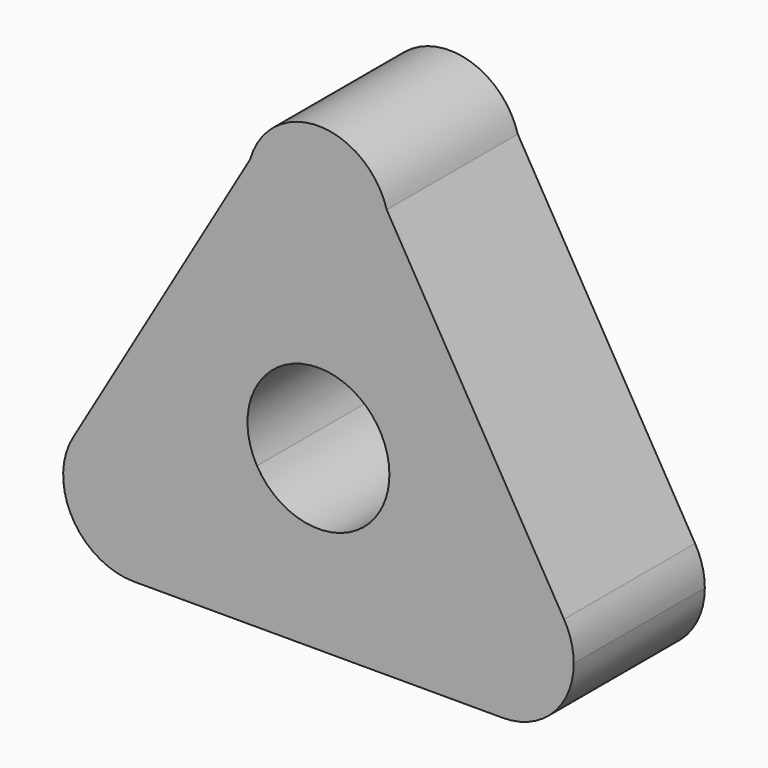
from build123d import *

# Parameters (mm, degrees)
F1_DEPTH = 25.4


with BuildPart() as f1:
    # F0 (on Front) → F1 (new body)
    with BuildSketch(Plane.XZ):
        with BuildLine():
            ThreePointArc((0, 11), (7.778175, 7.778175), (11, 0))
            ThreePointArc((11, 0), (10.625184, -2.847009), (9.526279, -5.5))
            Line((9.526279, -5.5), (19.054118, -11.0009))
            ThreePointArc((19.054118, -11.0009), (28.544672, -5.501853), (38.069208, -10.941828))
            Line((38.069208, -10.941828), (10.584951, 35.986505))
            ThreePointArc((10.584951, 35.986505), (10.894398, 34.50748), (10.9982, 33))
            ThreePointArc((10.9982, 33), (7.776902, 25.223098), (0, 22.0018))
            Line((0, 22.0018), (0, 11))
        make_face()
        with BuildLine():
            ThreePointArc((-9.526279, -5.5), (-9.526279, 5.5), (0, 11))
            Line((0, 11), (0, 22.0018))
            ThreePointArc((0, 22.0018), (-8.769452, 26.362447), (-10.584951, 35.986505))
            Line((-10.584951, 35.986505), (-38.069208, -10.941828))
            ThreePointArc((-38.069208, -10.941828), (-28.544671, -5.501853), (-19.054118, -11.0009))
            Line((-19.054118, -11.0009), (-9.526279, -5.5))
        make_face()
        with BuildLine():
            Line((19.054118, -11.0009), (9.526279, -5.5))
            ThreePointArc((9.526279, -5.5), (0, -11), (-9.526279, -5.5))
            Line((-9.526279, -5.5), (-19.054118, -11.0009))
            ThreePointArc((-19.054118, -11.0009), (-17.955393, -13.653456), (-17.580638, -16.5))
            ThreePointArc((-17.580638, -16.5), (-20.801936, -24.276902), (-28.578838, -27.4982))
            Line((-28.578838, -27.4982), (28.578838, -27.4982))
            ThreePointArc((28.578838, -27.4982), (19.054118, -21.9991), (19.054118, -11.0009))
        make_face()
        with BuildLine():
            ThreePointArc((-10.584951, 35.986505), (-8.769452, 26.362447), (0, 22.0018))
            ThreePointArc((0, 22.0018), (7.776902, 25.223098), (10.9982, 33))
            ThreePointArc((10.9982, 33), (10.894398, 34.50748), (10.584951, 35.986505))
            ThreePointArc((10.584951, 35.986505), (0, 43.9982), (-10.584951, 35.986505))
        make_face()
        with BuildLine():
            ThreePointArc((38.069208, -10.941828), (28.544672, -5.501853), (19.054118, -11.0009))
            ThreePointArc((19.054118, -11.0009), (19.054118, -21.9991), (28.578838, -27.4982))
            ThreePointArc((28.578838, -27.4982), (36.35574, -24.276902), (39.577038, -16.5))
            ThreePointArc((39.577038, -16.5), (39.19339, -13.620467), (38.069208, -10.941828))
        make_face()
        with BuildLine():
            ThreePointArc((-17.580638, -16.5), (-17.955393, -13.653456), (-19.054118, -11.0009))
            ThreePointArc((-19.054118, -11.0009), (-28.544671, -5.501853), (-38.069208, -10.941828))
            ThreePointArc((-38.069208, -10.941828), (-38.120596, -21.969484), (-28.578838, -27.4982))
            ThreePointArc((-28.578838, -27.4982), (-20.801936, -24.276902), (-17.580638, -16.5))
        make_face()
    extrude(amount=F1_DEPTH)


solid = f1.part
